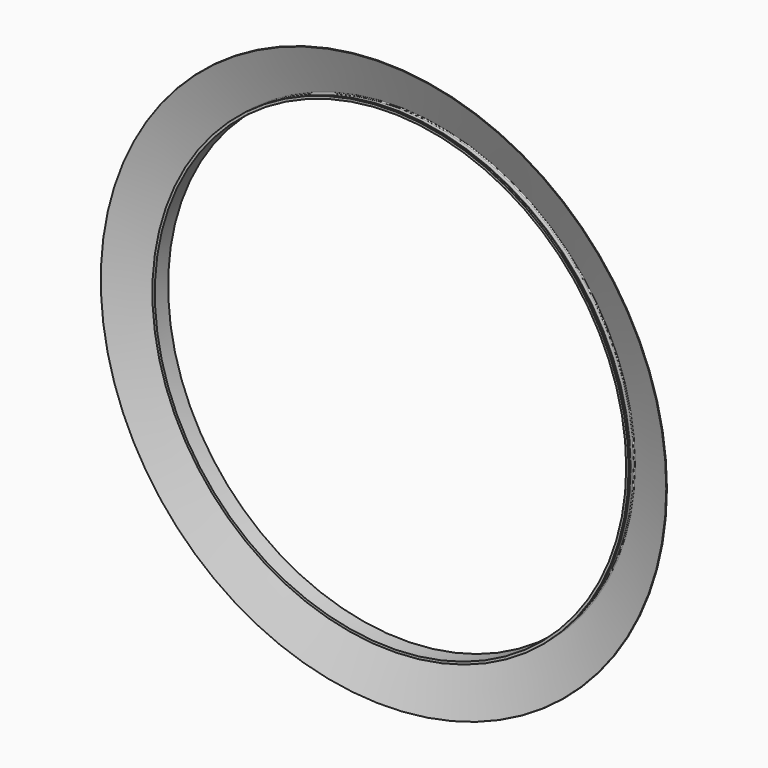
from build123d import *

# Parameters (mm, degrees)
F2_W = 2.117321
F2_H = 5.349764


with BuildPart() as f3:
    # F2 (on Top) → F3 (revolve)
    with BuildSketch(Plane.XY):
        with Locations((-55.687049, -6.26283)):
            Rectangle(F2_W, F2_H)
    revolve(axis=Axis((-1272.245709, -11.326335, 0), (0, 1, 0)))


with BuildPart() as f4:
    # F1 (on Top) → F4 (revolve)
    with BuildSketch(Plane.XY):
        with BuildLine():
            Line((-59.745709, 13.318266), (-59.745709, -18.875692))
            Line((-59.745709, -18.875692), (-56.745709, -18.875692))
            Line((-56.745709, -18.875692), (-56.745709, 13.318266))
            ThreePointArc((-56.745709, 13.318266), (-55.022854, 16.606823), (-51.338404, 17.062527))
            Line((-51.338404, 17.062527), (176.398813, -68.533947))
            Line((176.398813, -68.533947), (177.454291, -65.725751))
            Line((177.454291, -65.725751), (-50.282926, 19.870723))
            ThreePointArc((-50.282926, 19.870723), (-56.730713, 19.073241), (-59.745709, 13.318266))
        make_face()
    revolve(axis=Axis((-1272.245709, -11.326335, 0), (0, 1, 0)))


with BuildPart() as f5:
    # F0 (on Top) → F5 (revolve)
    with BuildSketch(Plane.XY):
        with BuildLine():
            Line((-64.745709, 61.124308), (-64.745709, -23.875692))
            Line((-64.745709, -23.875692), (-52.245709, -23.875692))
            Line((-52.245709, -23.875692), (-52.245709, -20.875692))
            ThreePointArc((-52.245709, -20.875692), (-52.831495, -19.461478), (-54.245709, -18.875692))
            Line((-54.245709, -18.875692), (-59.745709, -18.875692))
            ThreePointArc((-59.745709, -18.875692), (-61.159922, -18.289905), (-61.745709, -16.875692))
            Line((-61.745709, -16.875692), (-61.745709, 3.124308))
            ThreePointArc((-61.745709, 3.124308), (-61.159922, 4.538522), (-59.745709, 5.124308))
            Line((-59.745709, 5.124308), (-59.745709, 42.235993))
            ThreePointArc((-59.745709, 42.235993), (-58.884281, 43.880272), (-57.042056, 44.108124))
            Line((-57.042056, 44.108124), (64.192332, -1.458588))
            ThreePointArc((64.192332, -1.458588), (65.354382, -2.080997), (66.313381, -2.985472))
            Line((66.313381, -2.985472), (89.994112, -32.123615))
            ThreePointArc((89.994112, -32.123615), (90.953111, -33.02809), (92.115161, -33.650499))
            Line((92.115161, -33.650499), (117.454291, -43.174371))
            ThreePointArc((117.454291, -43.174371), (116.839415, -39.874054), (114.275831, -37.706521))
            Line((114.275831, -37.706521), (94.536251, -30.287275))
            ThreePointArc((94.536251, -30.287275), (93.3742, -29.664866), (92.415202, -28.760391))
            Line((92.415202, -28.760391), (68.734471, 0.377752))
            ThreePointArc((68.734471, 0.377752), (67.775472, 1.282227), (66.613422, 1.904635))
            Line((66.613422, 1.904635), (-54.26397, 47.337168))
            ThreePointArc((-54.26397, 47.337168), (-58.967102, 51.004958), (-60.745709, 56.697822))
            Line((-60.745709, 56.697822), (-60.745709, 57.124308))
            ThreePointArc((-60.745709, 57.124308), (-61.917281, 59.952736), (-64.745709, 61.124308))
        make_face()
    revolve(axis=Axis((-1272.245709, -11.326335, 0), (0, 1, 0)))


solid = Compound([f3.part, f4.part, f5.part])
